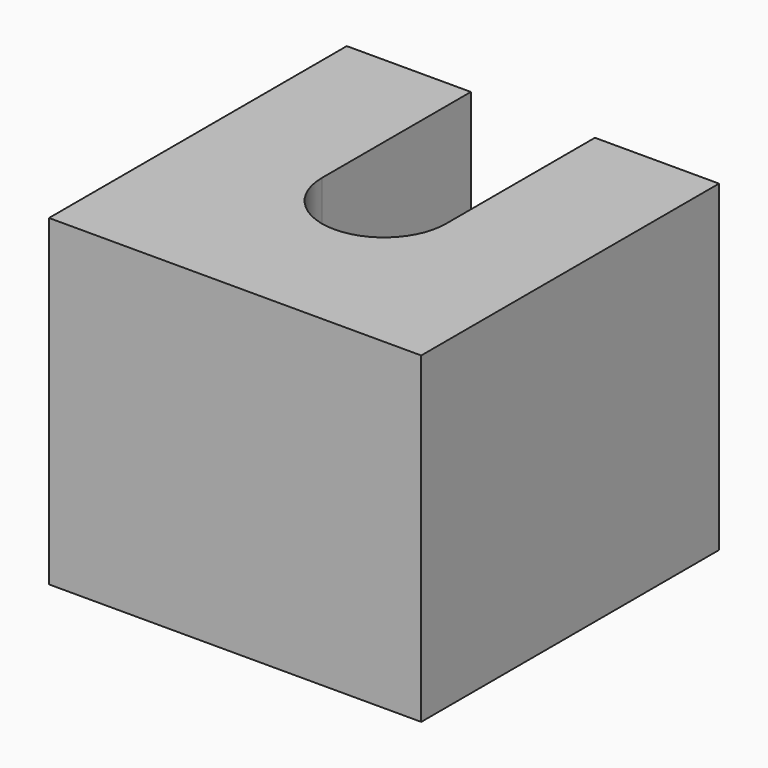
from build123d import *

# Parameters (mm, degrees)
F0_W     = 19.05
F0_H     = 19.05
F1_DEPTH = 6.35
F3_DEPTH = 3.81
F5_DEPTH = 6.35
F7_DEPTH = 3.048
F8_R     = 1.905
F9_DEPTH = 3.303


with BuildPart() as f1:
    # F0 (on Top) → F1 (new body)
    with BuildSketch(Plane.XY):
        Rectangle(F0_W, F0_H)
    extrude(amount=-F1_DEPTH)

    # F2 (on face) → F3 (join)
    with BuildSketch(Plane.XY):
        with BuildLine():
            ThreePointArc((6.35, 0), (0, -6.35), (-6.35, 0))
            Line((-6.35, 0), (-6.35, 9.525))
            Line((-6.35, 9.525), (-9.525, 9.525))
            Line((-9.525, 9.525), (-9.525, -9.525))
            Line((-9.525, -9.525), (9.525, -9.525))
            Line((9.525, -9.525), (9.525, 9.525))
            Line((9.525, 9.525), (6.35, 9.525))
            Line((6.35, 9.525), (6.35, 0))
        make_face()
    extrude(amount=F3_DEPTH)

    # F4 (on face) → F5 (join)
    with BuildSketch(Plane.XY.offset(3.81)):
        with BuildLine():
            Line((-3.175, 9.525), (-9.525, 9.525))
            Line((-9.525, 9.525), (-9.525, -9.525))
            Line((-9.525, -9.525), (9.525, -9.525))
            Line((9.525, -9.525), (9.525, 9.525))
            Line((9.525, 9.525), (3.175, 9.525))
            Line((3.175, 9.525), (3.175, 0))
            ThreePointArc((3.175, 0), (0, -3.175), (-3.175, 0))
            Line((-3.175, 0), (-3.175, 9.525))
        make_face()
    extrude(amount=F5_DEPTH)

    # F6 (on face) → F7 (cut)
    with BuildSketch(Plane.XY):
        Polygon((2.383013, -4.1275), (4.766026, 0), (2.383013, 4.1275), (-2.383013, 4.1275), (-4.766026, 0), (-2.383013, -4.1275), align=None)
    extrude(amount=-F7_DEPTH, mode=Mode.SUBTRACT)

    # F8 (on face) → F9 (cut, through all)
    with BuildSketch(Plane.XY.offset(-3.048)):
        Circle(F8_R)
    extrude(amount=-F9_DEPTH, mode=Mode.SUBTRACT)


solid = f1.part
